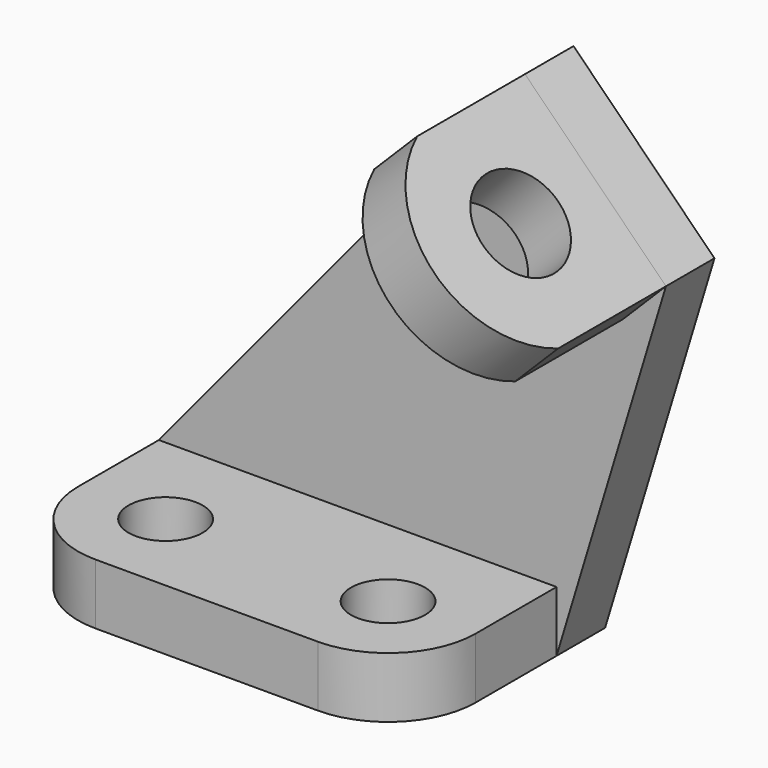
from build123d import *

# Parameters (mm, degrees)
F0_R     = 5.5
F1_DEPTH = 9
F3_START = -17.3870930076
F2_W     = 59
F2_H     = 9
F3_DEPTH = 8.9999069924
F5_R     = 7
F6_DEPTH = 9


with BuildPart() as f1:
    # F0 (on Top) → F1 (new body)
    with BuildSketch(Plane.XY):
        with BuildLine():
            Line((46, 17.3870930076), (-13, 17.3870930076))
            Line((-13, 17.3870930076), (-13, 2.3870930076))
            ThreePointArc((-13, 2.3870930076), (-9.1923881554, -6.8052951478), (0, -10.6129069924))
            Line((0, -10.6129069924), (33, -10.6129069924))
            ThreePointArc((33, -10.6129069924), (42.1923881554, -6.8052951478), (46, 2.3870930076))
            Line((46, 2.3870930076), (46, 17.3870930076))
        make_face()
        with Locations((0, 2.3870930076)):
            Circle(F0_R, mode=Mode.SUBTRACT)
        with Locations((33, 2.3870930076)):
            Circle(F0_R, mode=Mode.SUBTRACT)
    extrude(amount=F1_DEPTH)

    # F2 (on Front) → F3 (join)
    with BuildSketch(Plane.XZ.offset(F3_START)):
        with Locations((16.5, 4.5)):
            Rectangle(F2_W, F2_H)
        Polygon((46, 9), (46, 0), (62.2267983854, 53.5452626646), (41.3173237145, 74.4547373354), (-13, 9), align=None)
    extrude(amount=-F3_DEPTH)

    # F5 (on offset) → F6 (join)
    with BuildSketch(Plane(origin=(57.886030525, 0, 57.886030525), x_dir=(0, 1, 0), z_dir=(0.7071067812, 0, 0.7071067812))):
        with BuildLine():
            Line((-2.613, -6.1387727793), (26.387, -6.1387727793))
            Line((26.387, -6.1387727793), (26.387, 23.4316898824))
            Line((26.387, 23.4316898824), (-2.613, 23.4316898824))
            ThreePointArc((-2.613, 23.4316898824), (-12.4976966965, 8.6464585515), (-2.613, -6.1387727793))
        make_face()
        with Locations((3.5023033035, 8.6464585515)):
            Circle(F5_R, mode=Mode.SUBTRACT)
    extrude(amount=-F6_DEPTH)


solid = f1.part
